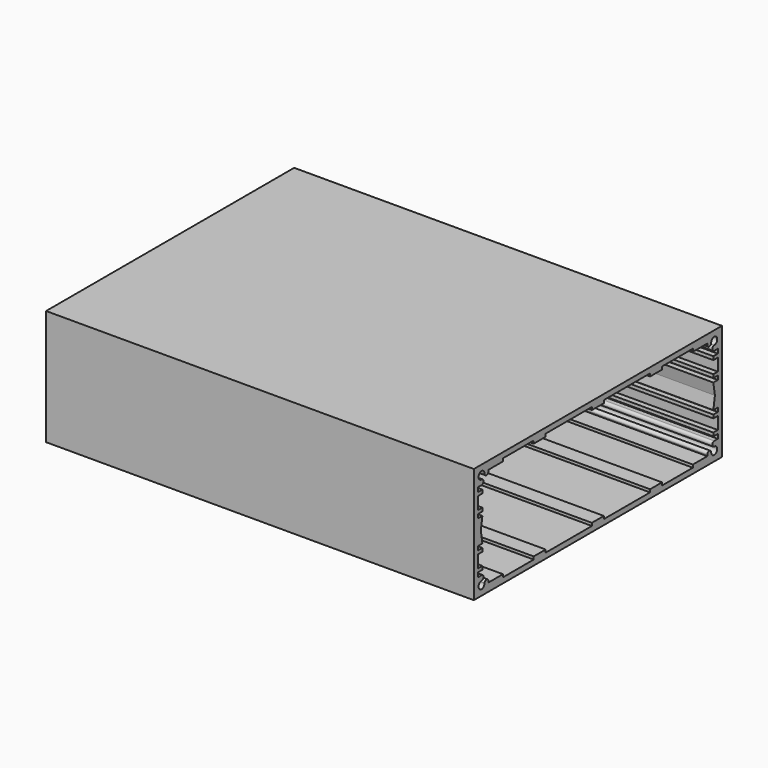
from build123d import *

# Parameters (mm, degrees)
F0_W     = 145
F0_H     = 54
F1_DEPTH = 200


with BuildPart() as f1:
    # F0 (on Right) → F1 (new body)
    with BuildSketch(Plane.YZ):
        with Locations((72.5, 27)):
            Rectangle(F0_W, F0_H)
        with BuildLine():
            Line((69, 50.2), (72.5, 50.2))
            Line((72.5, 50.2), (76, 50.2))
            Line((76, 50.2), (76, 51.5))
            Line((76, 51.5), (103, 51.5))
            Line((103, 51.5), (103, 50.2))
            Line((103, 50.2), (110, 50.2))
            Line((110, 50.2), (110, 51.5))
            Line((110, 51.5), (128, 51.5))
            Line((128, 51.5), (128, 50.2))
            Line((128, 50.2), (136.45, 50.2))
            Line((136.45, 50.2), (136.45, 49.6))
            ThreePointArc((136.45, 49.6), (137.6, 48.45), (138.75, 49.6))
            ThreePointArc((138.75, 49.6), (141.737437, 50.837437), (140.5, 47.85))
            ThreePointArc((140.5, 47.85), (139.35, 46.7), (140.5, 45.55))
            Line((140.5, 45.55), (142.6, 45.55))
            Line((142.6, 45.55), (142.6, 43.5))
            Line((142.6, 43.5), (140, 43.5))
            Line((140, 43.5), (140, 41.9))
            Line((140, 41.9), (142.6, 41.9))
            Line((142.6, 41.9), (142.6, 36.1))
            Line((142.6, 36.1), (140, 36.1))
            Line((140, 36.1), (140, 34.5))
            Line((140, 34.5), (142.6, 34.5))
            Line((142.6, 34.5), (142.6, 32.682376))
            Line((142.6, 32.682376), (140, 32.682376))
            Line((140, 32.682376), (140.9, 27))
            Line((140.9, 27), (140, 21.317624))
            Line((140, 21.317624), (142.6, 21.317624))
            Line((142.6, 21.317624), (142.6, 19.5))
            Line((142.6, 19.5), (140, 19.5))
            Line((140, 19.5), (140, 17.9))
            Line((140, 17.9), (142.6, 17.9))
            Line((142.6, 17.9), (142.6, 12.1))
            Line((142.6, 12.1), (140, 12.1))
            Line((140, 12.1), (140, 10.5))
            Line((140, 10.5), (142.6, 10.5))
            Line((142.6, 10.5), (142.6, 8.45))
            Line((142.6, 8.45), (140.5, 8.45))
            ThreePointArc((140.5, 8.45), (139.35, 7.3), (140.5, 6.15))
            ThreePointArc((140.5, 6.15), (141.737437, 3.162563), (138.75, 4.4))
            ThreePointArc((138.75, 4.4), (137.6, 5.55), (136.45, 4.4))
            Line((136.45, 4.4), (136.45, 3.8))
            Line((136.45, 3.8), (128, 3.8))
            Line((128, 3.8), (128, 2.5))
            Line((128, 2.5), (110, 2.5))
            Line((110, 2.5), (110, 3.8))
            Line((110, 3.8), (103, 3.8))
            Line((103, 3.8), (103, 2.5))
            Line((103, 2.5), (76, 2.5))
            Line((76, 2.5), (76, 3.8))
            Line((76, 3.8), (72.5, 3.8))
            Line((72.5, 3.8), (69, 3.8))
            Line((69, 3.8), (69, 2.5))
            Line((69, 2.5), (42, 2.5))
            Line((42, 2.5), (42, 3.8))
            Line((42, 3.8), (35, 3.8))
            Line((35, 3.8), (35, 2.5))
            Line((35, 2.5), (17, 2.5))
            Line((17, 2.5), (17, 3.8))
            Line((17, 3.8), (8.55, 3.8))
            Line((8.55, 3.8), (8.55, 4.4))
            ThreePointArc((8.55, 4.4), (7.4, 5.55), (6.25, 4.4))
            ThreePointArc((6.25, 4.4), (3.262563, 3.162563), (4.5, 6.15))
            ThreePointArc((4.5, 6.15), (5.65, 7.3), (4.5, 8.45))
            Line((4.5, 8.45), (2.4, 8.45))
            Line((2.4, 8.45), (2.4, 10.5))
            Line((2.4, 10.5), (5, 10.5))
            Line((5, 10.5), (5, 12.1))
            Line((5, 12.1), (2.4, 12.1))
            Line((2.4, 12.1), (2.4, 17.9))
            Line((2.4, 17.9), (5, 17.9))
            Line((5, 17.9), (5, 19.5))
            Line((5, 19.5), (2.4, 19.5))
            Line((2.4, 19.5), (2.4, 21.317624))
            Line((2.4, 21.317624), (5, 21.317624))
            Line((5, 21.317624), (4.1, 27))
            Line((4.1, 27), (5, 32.682376))
            Line((5, 32.682376), (2.4, 32.682376))
            Line((2.4, 32.682376), (2.4, 34.5))
            Line((2.4, 34.5), (5, 34.5))
            Line((5, 34.5), (5, 36.1))
            Line((5, 36.1), (2.4, 36.1))
            Line((2.4, 36.1), (2.4, 41.9))
            Line((2.4, 41.9), (5, 41.9))
            Line((5, 41.9), (5, 43.5))
            Line((5, 43.5), (2.4, 43.5))
            Line((2.4, 43.5), (2.4, 45.55))
            Line((2.4, 45.55), (4.5, 45.55))
            ThreePointArc((4.5, 45.55), (5.65, 46.7), (4.5, 47.85))
            ThreePointArc((4.5, 47.85), (3.262563, 50.837437), (6.25, 49.6))
            ThreePointArc((6.25, 49.6), (7.4, 48.45), (8.55, 49.6))
            Line((8.55, 49.6), (8.55, 50.2))
            Line((8.55, 50.2), (17, 50.2))
            Line((17, 50.2), (17, 51.5))
            Line((17, 51.5), (35, 51.5))
            Line((35, 51.5), (35, 50.2))
            Line((35, 50.2), (42, 50.2))
            Line((42, 50.2), (42, 51.5))
            Line((42, 51.5), (69, 51.5))
            Line((69, 51.5), (69, 50.2))
        make_face(mode=Mode.SUBTRACT)
    extrude(amount=F1_DEPTH)


solid = f1.part
